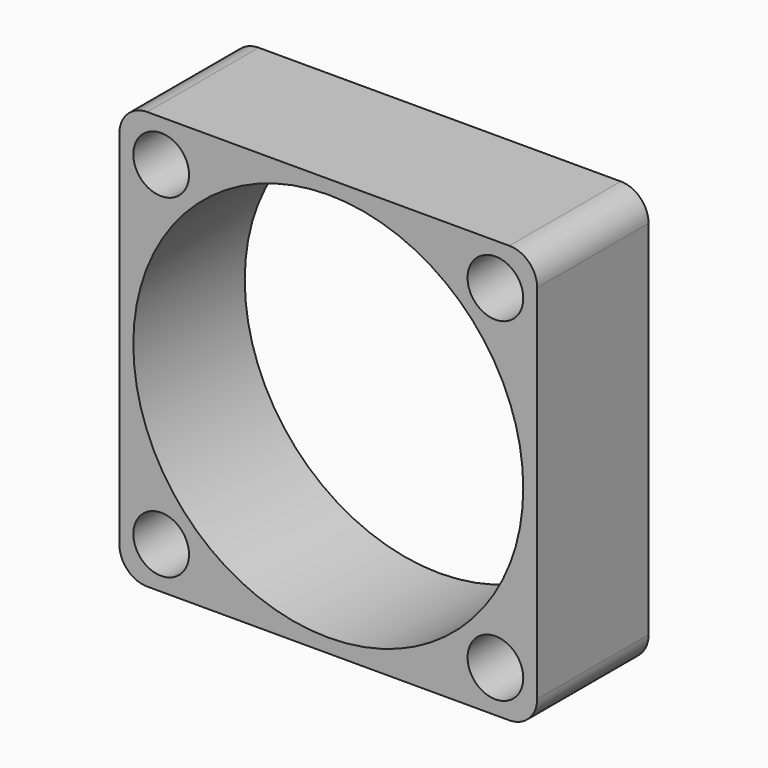
from build123d import *

# Parameters (mm, degrees)
CYLINDER002_R     = 14
CYLINDER002_DEPTH = 10
CYLINDER001_R     = 2
CYLINDER001_DEPTH = 10
ARRAY_X_COUNT     = 2
ARRAY_X_PITCH     = 24
ARRAY_Y_COUNT     = 2
ARRAY_Y_PITCH     = 24
EXTRUDE_DEPTH     = 10
CUT002_ROLL_ANGLE = 90


with BuildPart() as cilindro002:
    # Cylinder002 → Cylinder002 (new body)
    with BuildSketch(Plane.XY):
        Circle(CYLINDER002_R)
    extrude(amount=CYLINDER002_DEPTH)


with BuildPart() as array:
    # Cylinder001 → Cylinder001 (new body)
    with BuildSketch(Plane(origin=(12, 12, 0), x_dir=(1, 0, 0), z_dir=(0, 0, 1))):
        Circle(CYLINDER001_R)
    extrude(amount=CYLINDER001_DEPTH)

    # Array X: Array ×2


with BuildPart() as array_1:
    add(array.part)
    with Locations(*[(-i * ARRAY_X_PITCH, 0, 0) for i in range(1, ARRAY_X_COUNT)]):
        add(array.part)

    # Array Y: Array ×2


with BuildPart() as array_2:
    add(array_1.part)
    with Locations(*[(0, -i * ARRAY_Y_PITCH, 0) for i in range(1, ARRAY_Y_COUNT)]):
        add(array_1.part)


with BuildPart() as cut002:
    # Rectangle → Extrude (new body)
    with BuildSketch(Plane(origin=(-15, -15, 0), x_dir=(1, 0, 0), z_dir=(0, 0, 1))):
        with BuildLine():
            Line((2, 0), (28, 0))
            ThreePointArc((28, 0), (29.414214, 0.585786), (30, 2))
            Line((30, 2), (30, 28))
            ThreePointArc((30, 28), (29.414214, 29.414214), (28, 30))
            Line((28, 30), (2, 30))
            ThreePointArc((2, 30), (0.585786, 29.414214), (0, 28))
            Line((0, 28), (0, 2))
            ThreePointArc((0, 2), (0.585786, 0.585786), (2, 0))
        make_face()
    extrude(amount=EXTRUDE_DEPTH)

    # Cut001: cut Array
    add(array_2.part, mode=Mode.SUBTRACT)

    # Cut002: cut Cilindro002
    add(cilindro002.part, mode=Mode.SUBTRACT)


with BuildPart() as cut002_1:
    # Cut002 roll: moved
    add(cut002.part.rotate(Axis((0, 0, 0), (1, 0, 0)), CUT002_ROLL_ANGLE))


with BuildPart() as cut002_2:
    # Cut002 placement: moved
    add(cut002_1.part.moved(Location((0, -25, -23))))


solid = cut002_2.part
